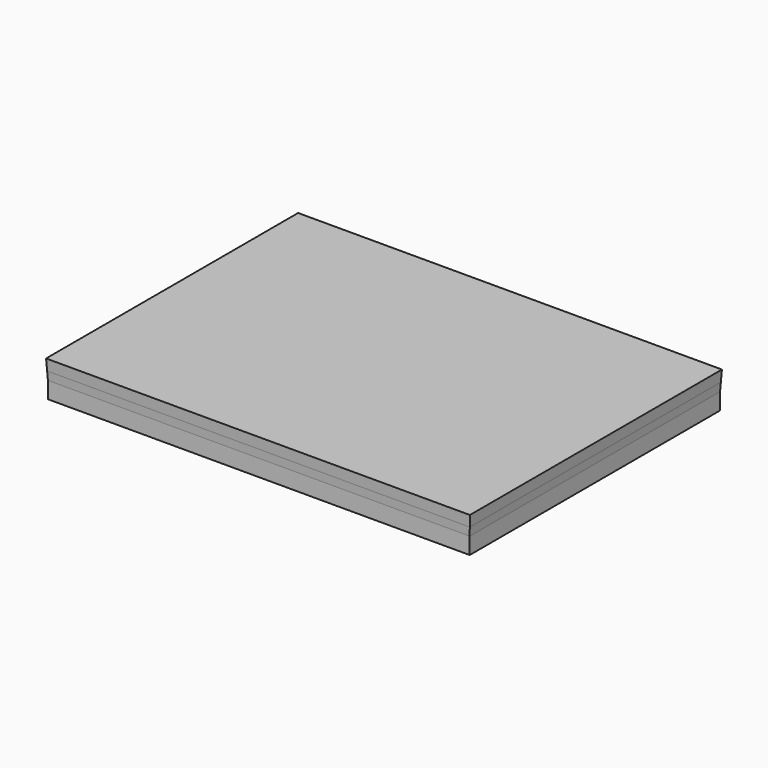
from build123d import *

# Parameters (mm, degrees)
F0_W     = 76.1363953352
F0_H     = 56.5012171865
F1_DEPTH = 3
F2_W     = 76.1363953352
F2_H     = 56.5012171865
F3_DEPTH = 1.5
F3_TAPER = -3
F4_W     = 76.293618673
F4_H     = 56.6584405243
F5_DEPTH = 2
F5_TAPER = -3


with BuildPart() as f1:
    # F0 (on Top) → F1 (new body)
    with BuildSketch(Plane.XY):
        with Locations((-38.0681976676, 28.2506085932)):
            Rectangle(F0_W, F0_H)
    extrude(amount=F1_DEPTH)


with BuildPart() as f3:
    # F2 (on face) → F3 (new body)
    with BuildSketch(Plane.XY.offset(3)):
        with Locations((-38.0681976676, 28.2506085932)):
            Rectangle(F2_W, F2_H)
    extrude(amount=F3_DEPTH, taper=F3_TAPER)


with BuildPart() as f5:
    # F4 (on face) → F5 (new body)
    with BuildSketch(Plane.XY.offset(4.5)):
        with Locations((-38.0681976676, 28.2506085932)):
            Rectangle(F4_W, F4_H)
    extrude(amount=F5_DEPTH, taper=F5_TAPER)


solid = Compound([f1.part, f3.part, f5.part])
